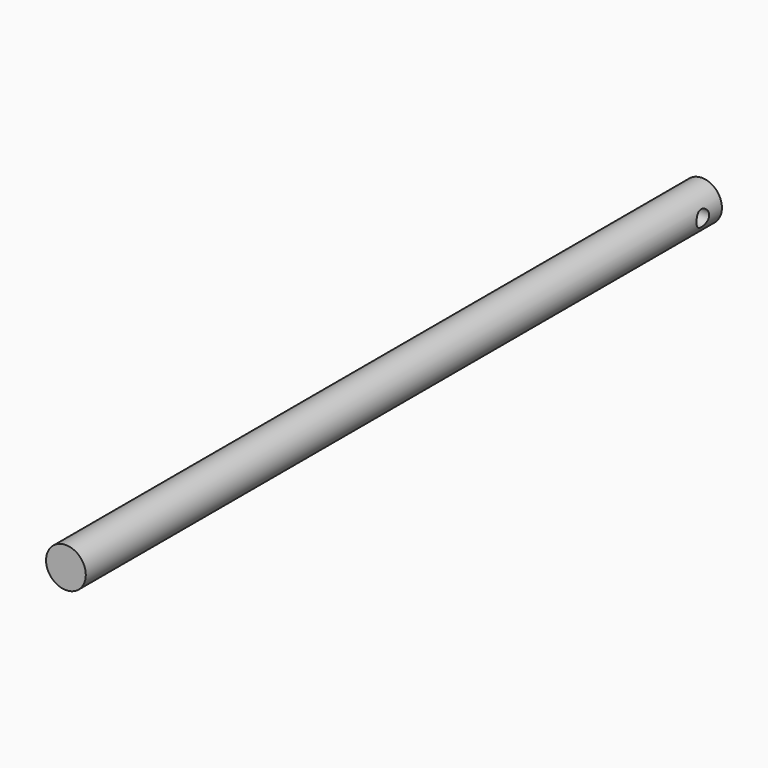
from build123d import *

# Parameters (mm, degrees)
F0_R          = 15.875
F1_DEPTH      = 635
F2_R          = 6.35
F3_DEPTH      = 15.876
F3_DEPTH_BACK = 15.876


with BuildPart() as f1:
    # F0 (on Front) → F1 (new body)
    with BuildSketch(Plane.XZ):
        Circle(F0_R)
    extrude(amount=F1_DEPTH)

    # F2 (on Right) → F3 (cut, two sides)
    with BuildSketch(Plane.YZ) as f3_sk:
        with Locations((-19.05, 0)):
            Circle(F2_R)
    extrude(amount=-F3_DEPTH, mode=Mode.SUBTRACT)
    extrude(f3_sk.sketch, amount=F3_DEPTH_BACK, mode=Mode.SUBTRACT)


solid = f1.part
